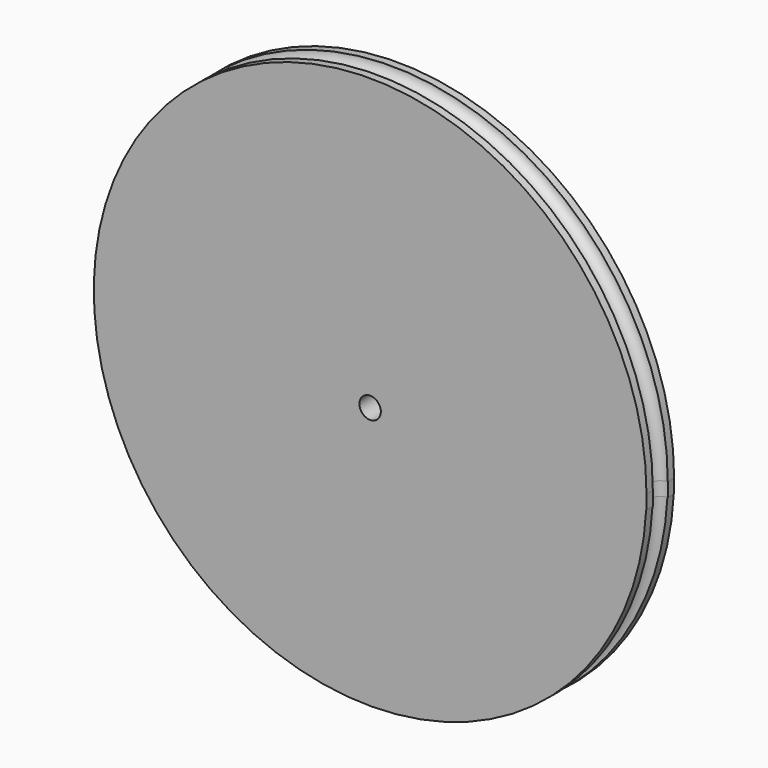
from build123d import *

# Parameters (mm, degrees)
F0_W      = 50.8
F0_H      = 6.35
F1_DEPTH  = 2.54
F3_DEPTH  = 2.54
F6_DEPTH  = 3.81
F8_DEPTH  = 6.35
F9_R      = 1.9685
F10_DEPTH = 6.35


with BuildPart() as f1:
    # F0 (on Top) → F1 (new body)
    with BuildSketch(Plane.XY):
        with Locations((25.4, 0)):
            Rectangle(F0_W, F0_H)
    extrude(amount=F1_DEPTH)

    # F2 (on face) → F3 (cut)
    with BuildSketch(Plane.XY.offset(2.54)):
        with BuildLine():
            Line((50.8, -1.716926), (50.8, 1.716926))
            ThreePointArc((50.8, 1.716926), (49.083074, 0), (50.8, -1.716926))
        make_face()
    extrude(amount=-F3_DEPTH, mode=Mode.SUBTRACT)

    # F1_face (on face) → F4 (revolve)
    with BuildSketch(Plane(origin=(25.4, 0, 2.54), x_dir=(1, 0, 0), z_dir=(0, 0, 1))):
        with BuildLine():
            Line((25.4, 1.716926), (25.4, 3.175))
            Line((25.4, 3.175), (-25.4, 3.175))
            Line((-25.4, 3.175), (-25.4, -3.175))
            Line((-25.4, -3.175), (25.4, -3.175))
            Line((25.4, -3.175), (25.4, -1.716926))
            ThreePointArc((25.4, -1.716926), (23.683074, 0), (25.4, 1.716926))
        make_face()
    revolve(axis=Axis((0, 0, 2.54), (0, -1, 0)))

    # F5 (on face) → F6 (join)
    with BuildSketch(Plane(origin=(0, 3.175, 0), x_dir=(-1, 0, 0), z_dir=(0, 1, 0))):
        Polygon((5.865879, 10.16), (-5.865879, 10.16), (-11.731757, 0), (-5.865879, -10.16), (5.865879, -10.16), (11.731757, 0), align=None)
    extrude(amount=F6_DEPTH)

    # F7 (on face) → F8 (cut)
    with BuildSketch(Plane(origin=(0, 6.985, 0), x_dir=(-1, 0, 0), z_dir=(0, 1, 0))):
        Polygon((4.05375, 7.021301), (-4.05375, 7.021301), (-8.107501, 0), (-4.05375, -7.021301), (4.05375, -7.021301), (8.107501, 0), align=None)
    extrude(amount=-F8_DEPTH, mode=Mode.SUBTRACT)

    # F9 (on face) → F10 (cut)
    with BuildSketch(Plane(origin=(0, 0.635, 0), x_dir=(-1, 0, 0), z_dir=(0, 1, 0))):
        Circle(F9_R)
    extrude(amount=-F10_DEPTH, mode=Mode.SUBTRACT)


solid = f1.part
